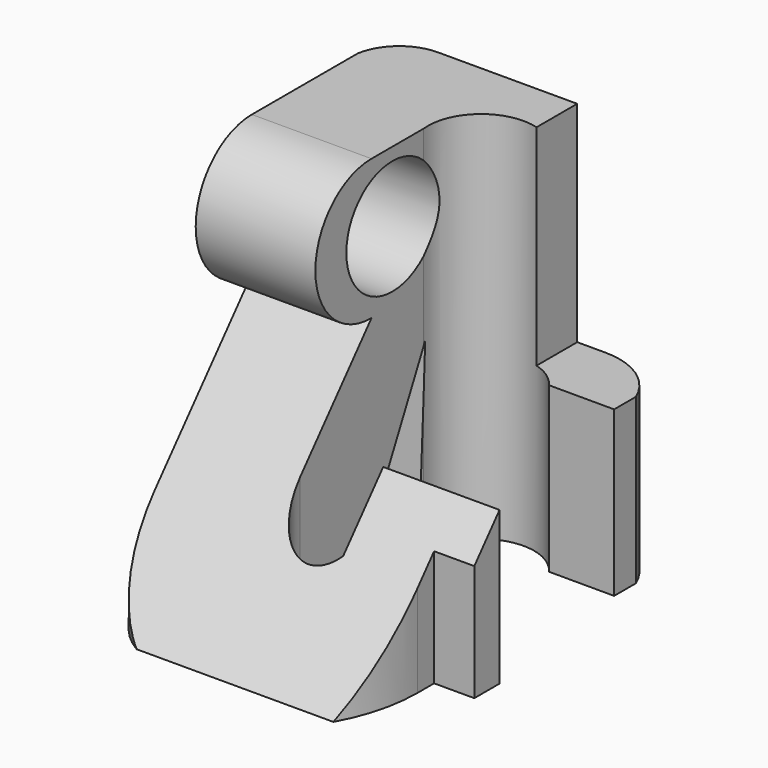
from build123d import *

# Parameters (mm, degrees)
F3_DEPTH = 50
F1_R     = 15.3624630906
F4_DEPTH = 50
F5_DEPTH = 50


with BuildPart() as f3:
    # F2 (on Front) → F3 (new body, symmetric)
    with BuildSketch(Plane.XZ):
        Polygon((0, 50), (-50, 50), (-50, -50), (50, -50), (50, -6.1023989692), (0, -6.1023989692), align=None)
    extrude(amount=F3_DEPTH, both=True)

    # F1 (on Right) → F4 (intersect, symmetric)
    with BuildSketch(Plane.YZ):
        with BuildLine():
            Line((-28.1872693449, -50), (-22.0848694444, -50))
            Line((-22.0848694444, -50), (-8.4271216765, -50))
            Line((-8.4271216765, -50), (-2.9059045482, -50))
            Line((-2.9059045482, -50), (21.7942818999, 0))
            Line((21.7942818999, 0), (19.46955733, -50))
            Line((19.46955733, -50), (50, -50))
            Line((50, -50), (50, 50))
            Line((50, 50), (3.777674865, 50))
            ThreePointArc((3.777674865, 50), (-14.9746309966, 31.2476941384), (3.777674865, 12.4953882769))
            Line((3.777674865, 12.4953882769), (-50, -50))
            Line((-50, -50), (-28.1872693449, -50))
        make_face()
        with Locations((10.7518453151, 31.2476941384)):
            Circle(F1_R, mode=Mode.SUBTRACT)
    extrude(amount=F4_DEPTH, both=True, mode=Mode.INTERSECT)

    # F0 (on Top) → F5 (intersect, symmetric)
    with BuildSketch(Plane.XY):
        with BuildLine():
            Line((7.5553534552, 50), (-37.1955744922, 50))
            ThreePointArc((-37.1955744922, 50), (-45.5614657619, 46.9494015958), (-50, 39.2297059298))
            Line((-50, 39.2297059298), (-50, -28.7684518844))
            ThreePointArc((-50, -28.7684518844), (-46.7258687965, -41.0178028378), (-37.7767533064, -50))
            Line((-37.7767533064, -50), (14.8201081902, -50))
            ThreePointArc((14.8201081902, -50), (18.93844543, -39.7373000198), (20.3413292766, -28.7684518844))
            Line((20.3413292766, -28.7684518844), (20.3413292766, -23.2472326607))
            Line((20.3413292766, -23.2472326607), (31.0931764543, -23.2472326607))
            Line((31.0931764543, -23.2472326607), (31.0931764543, -14.8201109841))
            Line((31.0931764543, -14.8201109841), (0, -14.8201109841))
            Line((0, -14.8201109841), (0, -28.1872712076))
            ThreePointArc((0, -28.1872712076), (-11.6349197117, -29.9350844405), (-18.0166047066, -20.0507380068))
            Line((-18.0166047066, -20.0507380068), (-18.0166047066, 21.2131012231))
            ThreePointArc((-18.0166047066, 21.2131012231), (-9.0414378215, 36.0015865466), (7.5553534552, 31.1231197696))
            Line((7.5553534552, 31.1231197696), (24.9907784164, 31.0931745917))
            Line((24.9907784164, 31.0931745917), (24.9907784164, 38.3579358459))
            ThreePointArc((24.9907784164, 38.3579358459), (18.0378591355, 46.8219630995), (7.5553534552, 50))
        make_face()
    extrude(amount=F5_DEPTH, both=True, mode=Mode.INTERSECT)


solid = f3.part
